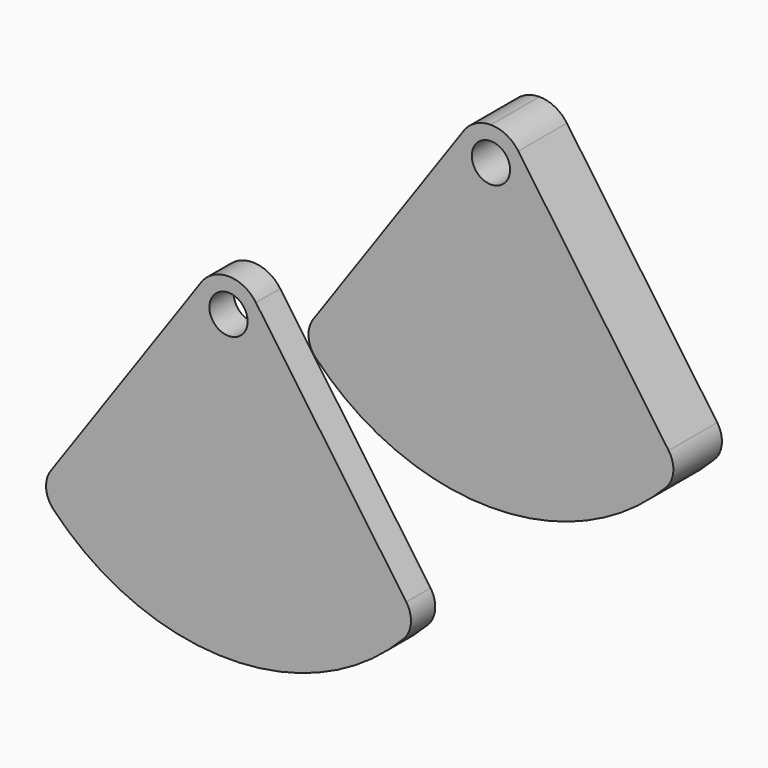
from build123d import *

# Parameters (mm, degrees)
F0_R     = 4
F1_DEPTH = 12.7
F3_R     = 4
F4_DEPTH = 6.35


with BuildPart() as f1:
    # F0 (on Front) → F1 (new body)
    with BuildSketch(Plane.XZ):
        with BuildLine():
            ThreePointArc((0, 7), (-3.23224, 6.209076), (-5.734064, 4.015035))
            Line((-5.734064, 4.015035), (-37.190916, -40.910005))
            ThreePointArc((-37.190916, -40.910005), (-38.169302, -44.487518), (-36.654028, -47.872749))
            ThreePointArc((-36.654028, -47.872749), (-19.923157, -59.43016), (0, -63.5))
            ThreePointArc((0, -63.5), (19.923157, -59.43016), (36.654028, -47.872749))
            ThreePointArc((36.654028, -47.872749), (38.169302, -44.487518), (37.190916, -40.910005))
            Line((37.190916, -40.910005), (5.734064, 4.015035))
            ThreePointArc((5.734064, 4.015035), (3.23224, 6.209076), (0, 7))
        make_face()
        Circle(F0_R, mode=Mode.SUBTRACT)
    extrude(amount=F1_DEPTH)


with BuildPart() as f4:
    # F3 (on offset) → F4 (new body)
    with BuildSketch(Plane.XZ.offset(75)):
        with BuildLine():
            ThreePointArc((36.654028, -47.872749), (38.169302, -44.487518), (37.190916, -40.910005))
            Line((37.190916, -40.910005), (5.734064, 4.015035))
            ThreePointArc((5.734064, 4.015035), (0, 7), (-5.734064, 4.015035))
            Line((-5.734064, 4.015035), (-37.190916, -40.910005))
            ThreePointArc((-37.190916, -40.910005), (-38.169302, -44.487518), (-36.654028, -47.872749))
            ThreePointArc((-36.654028, -47.872749), (0, -63.5), (36.654028, -47.872749))
        make_face()
        Circle(F3_R, mode=Mode.SUBTRACT)
    extrude(amount=F4_DEPTH)


solid = Compound([f1.part, f4.part])
